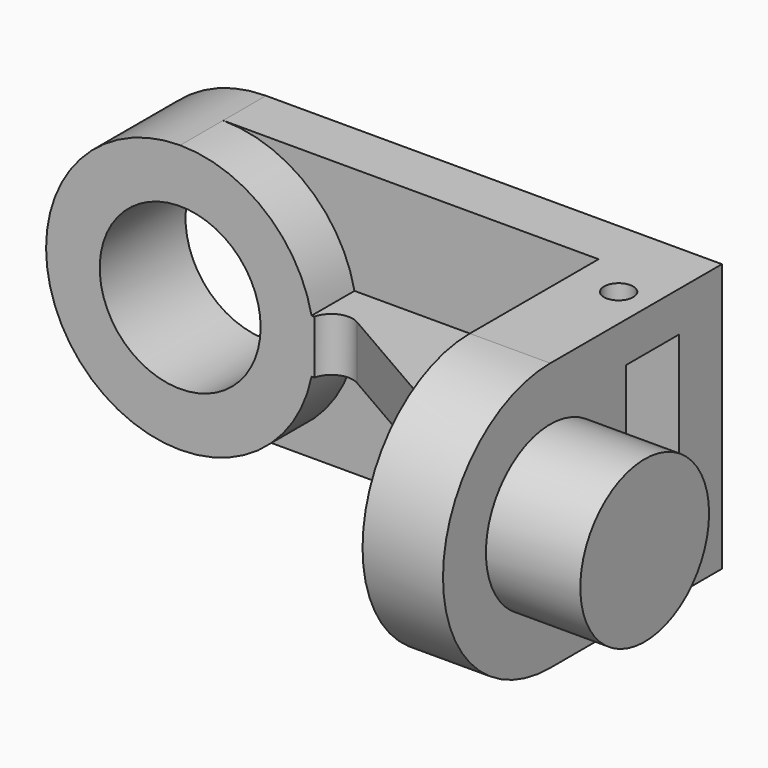
from build123d import *

# Parameters (mm, degrees)
F1_DEPTH  = 6.35
F2_DEPTH  = 6.35
F4_R      = 9.525
F4_W      = 6.35
F4_H      = 31.75
F5_DEPTH  = 9.525
F6_DEPTH  = 11.176
F8_DEPTH  = 3.175
F9_W      = 1.524
F9_H      = 22.225
F9_W_2    = 6.35
F10_DEPTH = 8.001
F11_R     = 1.7272
F12_DEPTH = 31.751


with BuildPart() as f1:
    # F0 (on Front) → F1 (new body, symmetric)
    with BuildSketch(Plane.XZ):
        with BuildLine():
            Line((-53.975, 6.35), (-53.975, 0))
            ThreePointArc((-53.975, 0), (-42.7496798487, 4.6496798487), (-38.1, 15.875))
            ThreePointArc((-38.1, 15.875), (-42.7496798487, 27.1003201513), (-53.975, 31.75))
            Line((-53.975, 31.75), (-53.975, 25.4))
            ThreePointArc((-53.975, 25.4), (-47.2398079092, 22.6101920908), (-44.45, 15.875))
            ThreePointArc((-44.45, 15.875), (-47.2398079092, 9.1398079092), (-53.975, 6.35))
        make_face()
        with BuildLine():
            ThreePointArc((-53.975, 31.75), (-69.85, 15.875), (-53.975, 0))
            Line((-53.975, 0), (-53.975, 6.35))
            ThreePointArc((-53.975, 6.35), (-63.5, 15.875), (-53.975, 25.4))
            Line((-53.975, 25.4), (-53.975, 31.75))
        make_face()
    extrude(amount=F1_DEPTH, both=True)

    # F0 (on Front) → F2 (join)
    with BuildSketch(Plane.XZ):
        with BuildLine():
            Line((-53.975, 0), (0, 0))
            Line((0, 0), (0, 31.75))
            Line((0, 31.75), (-53.975, 31.75))
            ThreePointArc((-53.975, 31.75), (-42.7496798487, 27.1003201513), (-38.1, 15.875))
            ThreePointArc((-38.1, 15.875), (-42.7496798487, 4.6496798487), (-53.975, 0))
        make_face()
    extrude(amount=-F2_DEPTH)

    # F4 (on face) → F5 (join)
    with BuildSketch(Plane.YZ):
        with BuildLine():
            Line((-19.05, 0), (-6.35, 0))
            Line((-6.35, 0), (-6.35, 31.75))
            Line((-6.35, 31.75), (-19.05, 31.75))
            ThreePointArc((-19.05, 31.75), (-34.925, 15.875), (-19.05, 0))
        make_face()
        with Locations((-19.05, 15.875)):
            Circle(F4_R, mode=Mode.SUBTRACT)
        with Locations((-3.175, 15.875)):
            Rectangle(F4_W, F4_H)
        with Locations((-19.05, 15.875)):
            Circle(F4_R)
    extrude(amount=-F5_DEPTH)

    # F4 (on face) → F6 (join)
    with BuildSketch(Plane.YZ):
        with Locations((-19.05, 15.875)):
            Circle(F4_R)
    extrude(amount=F6_DEPTH)

    # F7 (on line) → F8 (join, symmetric)
    with BuildSketch(Plane.XY.offset(15.875)):
        with BuildLine():
            Line((-34.3536134401, -4.7151933467), (-9.525, -19.05))
            Line((-9.525, -19.05), (-9.525, 0))
            Line((-9.525, 0), (-38.1, 0))
            Line((-38.1, 0), (-44.45, 0))
            Line((-44.45, 0), (-44.45, -6.35))
            Line((-44.45, -6.35), (-38.1, -6.35))
            ThreePointArc((-38.1, -6.35), (-36.6394826893, -4.5868923593), (-34.3536134401, -4.7151933467))
        make_face()
    extrude(amount=F8_DEPTH, both=True)

    # F9 (on face) → F10 (cut)
    with BuildSketch(Plane.YZ):
        with Locations((-7.112, 15.8877)):
            Rectangle(F9_W, F9_H)
        with Locations((-3.175, 15.8877)):
            Rectangle(F9_W_2, F9_H)
    extrude(amount=-F10_DEPTH, mode=Mode.SUBTRACT)

    # F11 (on face) → F12 (cut, through all)
    with BuildSketch(Plane(origin=(0, 0, 0), x_dir=(1, 0, 0), z_dir=(0, 0, -1))):
        with Locations((-4.0005, 3.937)):
            Circle(F11_R)
    extrude(amount=-F12_DEPTH, mode=Mode.SUBTRACT)


solid = f1.part
